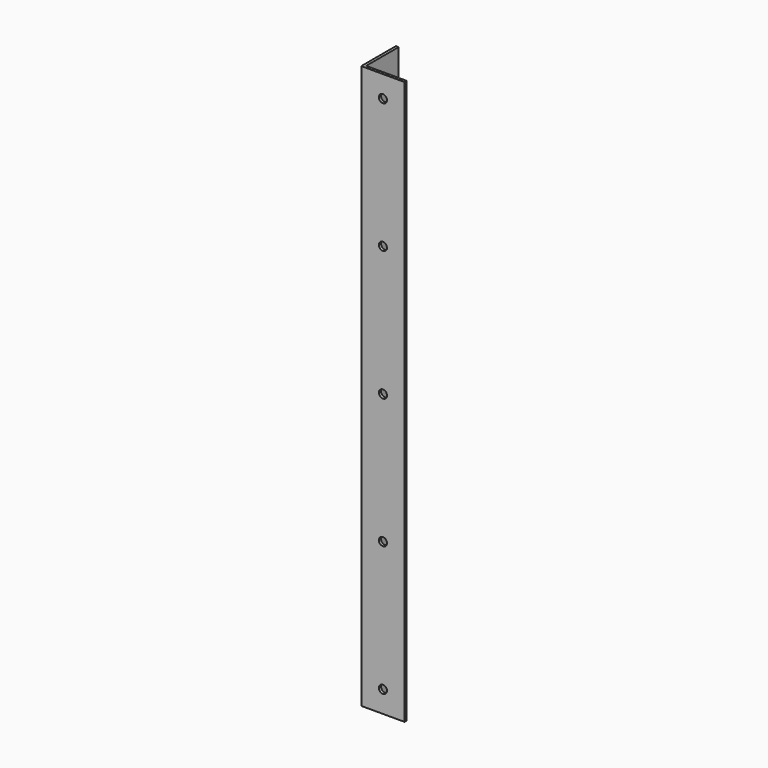
from build123d import *

# Parameters (mm, degrees)
F1_DEPTH = 165.1
F2_R     = 2.38125
F3_DEPTH = 1.5875
F4_R     = 2.38125
F5_DEPTH = 25.4


with BuildPart() as f1:
    # F0 (on Top) → F1 (new body, symmetric)
    with BuildSketch(Plane.XY):
        Polygon((1.5875, 25.4), (0, 25.4), (0, 0), (25.4, 0), (25.4, 1.5875), (1.5875, 1.5875), align=None)
    extrude(amount=F1_DEPTH, both=True)

    # F2 (on face) → F3 (cut, through all)
    with BuildSketch(Plane(origin=(0, 1.5875, 0), x_dir=(-1, 0, 0), z_dir=(0, 1, 0))):
        with Locations((-12.7, -152.4)):
            Circle(F2_R)
        with Locations((-12.7, 152.4)):
            Circle(F2_R)
        with Locations((-12.7, 76.2)):
            Circle(F2_R)
        with Locations((-12.7, -76.2)):
            Circle(F2_R)
        with Locations((-12.7, 0)):
            Circle(F2_R)
    extrude(amount=-F3_DEPTH, mode=Mode.SUBTRACT)

    # F4 (on face) → F5 (cut)
    with BuildSketch(Plane.YZ.offset(1.5875)):
        with Locations((9.525, -152.4)):
            Circle(F4_R)
        with Locations((9.525, -76.2)):
            Circle(F4_R)
        with Locations((9.525, 0)):
            Circle(F4_R)
        with Locations((9.525, 76.2)):
            Circle(F4_R)
        with Locations((9.525, 152.4)):
            Circle(F4_R)
    extrude(amount=-F5_DEPTH, mode=Mode.SUBTRACT)


solid = f1.part
